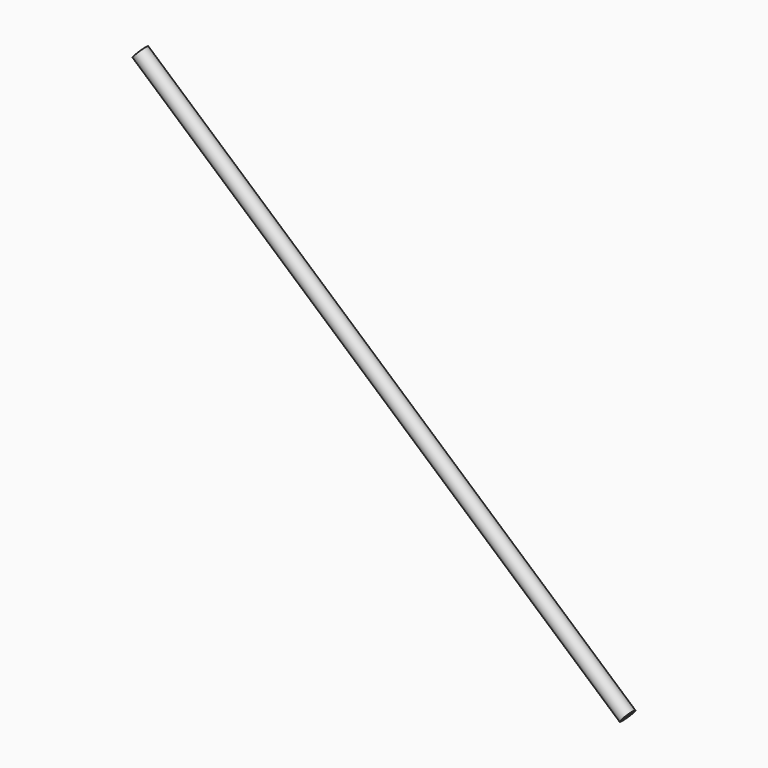
from build123d import *

# Parameters (mm, degrees)
F4_R     = 4.7625
F4_R_2   = 3.5179
F5_DEPTH = 405.13


with BuildPart() as f5:
    # F4 (on 3pt) → F5 (new body)
    with BuildSketch(Plane(origin=(-132.1746801975, 0, 115.6843153348), x_dir=(0, -1, 0), z_dir=(-0.7524878987, 0, 0.6586060752))):
        with Locations((0, 200.8482182957)):
            Circle(F4_R)
        with Locations((0, 200.8482182957)):
            Circle(F4_R_2, mode=Mode.SUBTRACT)
    extrude(amount=-F5_DEPTH)


solid = f5.part
